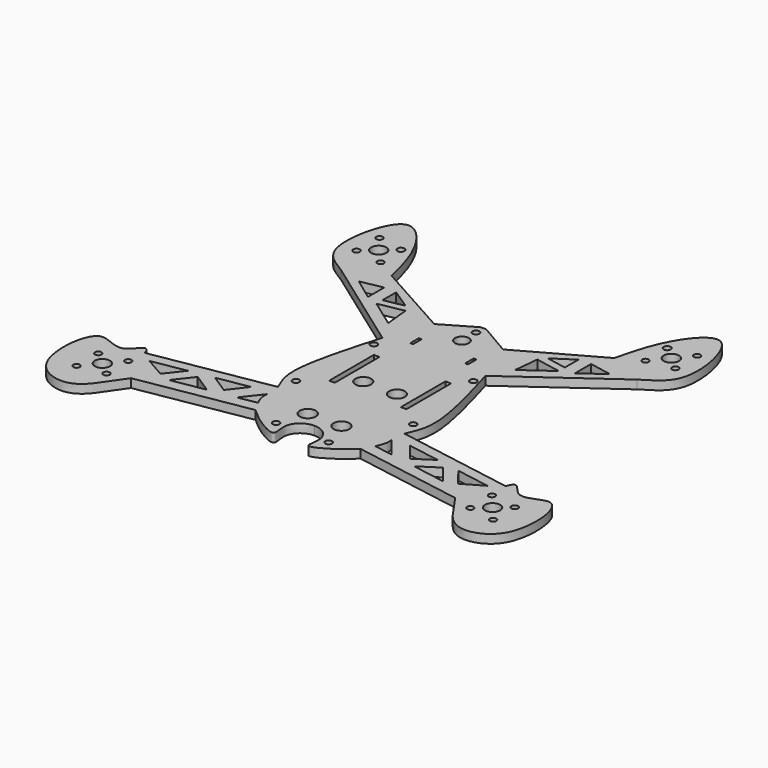
from build123d import *

# Parameters (mm, degrees)
F0_R     = 1.5
F0_R_2   = 3.5
F0_R_3   = 1.5603237364
F0_R_4   = 3.6784313997
F0_R_5   = 1.5603242853
F0_R_6   = 3.625
F0_R_7   = 1.5752571854
F0_W     = 1.3
F0_H     = 5
F0_R_8   = 1.5399300147
F0_R_9   = 1.6507982875
F0_R_10  = 3.2
F0_R_11  = 1.5589040248
F1_DEPTH = 4


with BuildPart() as f1:
    # F0 (on Top) → F1 (new body)
    with BuildSketch(Plane.XY):
        with BuildLine():
            Line((-29.1818936738, -4.574792359), (-83.2594150145, -13.7941171149))
            add(Edge.make_bspline(
                [(-83.2594150145, -13.7941171149), (-85.2128662423, -7.1198106995), (-90.6822367524, -22.2804713121), (-108.0862384356, -4.5162453231), (-111.9181982359, -44.1841921073), (-92.1066011734, -51.8826009726), (-82.4129690985, -44.8736810905), (-77.8596176364, -36.2077649533), (-74.7926011467, -32.3269814806)],
                knots=[0, 0, 0, 0, 0.121089536, 0.2817563111, 0.5080608478, 0.6900962019, 0.831812016, 1, 1, 1, 1], degree=3))
            Line((-74.7926011467, -32.3269814806), (-24.2295190477, -23.7068106042))
            add(Edge.make_bspline(
                [(-24.2295190477, -23.7068106042), (-21.6288853246, -26.1921759515), (-16.2720345656, -30.5442738452), (-5.7493978014, -35.9274045563), (-10.0844366524, -25.4601589495), (-4.2007032984, -20.0132504784), (0, -20.0132504677)],
                knots=[0, 0, 0, 0, 0.2839433682, 0.512945078, 0.7323598241, 1, 1, 1, 1], degree=3))
            add(Edge.make_bspline(
                [(24.2295190477, -23.7068106042), (21.6288853246, -26.1921759515), (16.2720345656, -30.5442738452), (5.7493978014, -35.9274045563), (10.0844366524, -25.4601589495), (4.2007032984, -20.0132504784), (0, -20.0132504677)],
                knots=[0, 0, 0, 0, 0.2839433682, 0.512945078, 0.7323598241, 1, 1, 1, 1], degree=3))
            Line((24.2295190477, -23.7068106042), (74.7926011467, -32.3269814806))
            add(Edge.make_bspline(
                [(83.2594150145, -13.7941171149), (85.2128662423, -7.1198106995), (90.6822367524, -22.2804713121), (108.0862384356, -4.5162453231), (111.9181982359, -44.1841921073), (92.1066011734, -51.8826009726), (82.4129690985, -44.8736810905), (77.8596176364, -36.2077649533), (74.7926011467, -32.3269814806)],
                knots=[0, 0, 0, 0, 0.121089536, 0.2817563111, 0.5080608478, 0.6900962019, 0.831812016, 1, 1, 1, 1], degree=3))
            Line((83.2594150145, -13.7941171149), (29.1818936738, -4.574792359))
            add(Edge.make_bspline(
                [(29.1818936738, -4.574792359), (30.7810065558, -1.0161994533), (35.2243076311, 8.9430263145), (28.2605683304, 33.235137955), (23.7655192614, 48.8469973207)],
                knots=[0, 0, 0, 0, 0.3573964528, 1, 1, 1, 1], degree=3))
            Line((23.7655192614, 48.8469973207), (68.2816207409, 80.7544887066))
            add(Edge.make_bspline(
                [(68.2816207409, 80.7544887066), (73.0141547112, 83.7643409235), (85.815308199, 89.6512026107), (76.0211343692, 131.7498013392), (57.8306329026, 113.4440015977), (53.5366143847, 98.0580862949), (51.3782771962, 88.7241733146)],
                knots=[0, 0, 0, 0, 0.2226784539, 0.5157809414, 0.7210548443, 1, 1, 1, 1], degree=3))
            Line((51.3782771962, 88.7241733146), (15.8683248522, 68.9106506181))
            Line((15.8683248522, 68.9106506181), (1.2991311302, 77.4093493819))
            Line((1.2991311302, 77.4093493819), (0, 77.4093493819))
            Line((0, 77.4093493819), (-1.2991311302, 77.4093493819))
            Line((-1.2991311302, 77.4093493819), (-15.8683248522, 68.9106506181))
            Line((-15.8683248522, 68.9106506181), (-51.3782771962, 88.7241733146))
            add(Edge.make_bspline(
                [(-68.2816207409, 80.7544887066), (-73.0141547112, 83.7643409235), (-85.815308199, 89.6512026107), (-76.0211343692, 131.7498013392), (-57.8306329026, 113.4440015977), (-53.5366143847, 98.0580862949), (-51.3782771962, 88.7241733146)],
                knots=[0, 0, 0, 0, 0.2226784539, 0.5157809414, 0.7210548443, 1, 1, 1, 1], degree=3))
            Line((-68.2816207409, 80.7544887066), (-23.7655192614, 48.8469973207))
            add(Edge.make_bspline(
                [(-29.1818936738, -4.574792359), (-30.7810065558, -1.0161994533), (-35.2243076311, 8.9430263145), (-28.2605683304, 33.235137955), (-23.7655192614, 48.8469973207)],
                knots=[0, 0, 0, 0, 0.3573964528, 1, 1, 1, 1], degree=3))
        make_face()
        with Locations((-96.0946079995, -37.0782642412)):
            Circle(F0_R, mode=Mode.SUBTRACT)
        with Locations((-90, -29.7908948027)):
            Circle(F0_R_2, mode=Mode.SUBTRACT)
        with Locations((-83.9313524877, -35.0035253643)):
            Circle(F0_R, mode=Mode.SUBTRACT)
        with Locations((-96.0686475123, -24.5782642412)):
            Circle(F0_R, mode=Mode.SUBTRACT)
        with Locations((-83.9053920005, -22.5035253643)):
            Circle(F0_R, mode=Mode.SUBTRACT)
        Polygon((-68.6591267586, -23.018611595), (-77.9922753572, -17.6635235548), (-62.3705416318, -15.0002758154), align=None, mode=Mode.SUBTRACT)
        Polygon((-47.7932764983, -22.2815754728), (-63.2166972767, -24.9110141282), (-56.6408589283, -16.5264126881), align=None, mode=Mode.SUBTRACT)
        Polygon((-42.9289423631, -18.6292827273), (-51.3866762413, -13.1277080719), (-36.6785697721, -10.6202186988), align=None, mode=Mode.SUBTRACT)
        with BuildLine():
            Line((-27.0325545608, -18.7422150701), (-35.596736209, -20.2022666762))
            Line((-35.596736209, -20.2022666762), (-28.658721596, -11.3120761383))
            add(Edge.make_bspline(
                [(-28.658721596, -11.3120761383), (-28.7729959543, -12.6906338356), (-28.975672476, -14.0126159853), (-27.6802208506, -17.5715144674), (-27.0325545608, -18.7422150701)],
                knots=[0, 0, 0, 0, 0.4428259853, 1, 1, 1, 1], degree=3))
        make_face(mode=Mode.SUBTRACT)
        with Locations((-12.1216634288, -26.9466340542)):
            Circle(F0_R_3, mode=Mode.SUBTRACT)
        with Locations((-7.7821551822, -14.1475396231)):
            Circle(F0_R_4, mode=Mode.SUBTRACT)
        with Locations((-27.0325545608, 3.1299367547)):
            Circle(F0_R_5, mode=Mode.SUBTRACT)
        Polygon((-15.2274593711, 36.5069974214), (-15.2274593711, 17.2249544412), (-15.2274593711, 10.7579939067), (-17.823997885, 10.7579939067), (-17.823997885, 36.5069974214), align=None, mode=Mode.SUBTRACT)
        with Locations((-7.7821551822, 17.8524603769)):
            Circle(F0_R_6, mode=Mode.SUBTRACT)
        with Locations((12.1216634288, -26.9466340542)):
            Circle(F0_R_3, mode=Mode.SUBTRACT)
        with Locations((7.7821551822, -14.1475396231)):
            Circle(F0_R_4, mode=Mode.SUBTRACT)
        Polygon((47.7932764983, -22.2815754728), (56.6408589283, -16.5264126881), (63.2166972767, -24.9110141282), align=None, mode=Mode.SUBTRACT)
        with BuildLine():
            Line((28.658721596, -11.3120761383), (35.596736209, -20.2022666762))
            Line((35.596736209, -20.2022666762), (27.0325545608, -18.7422150701))
            add(Edge.make_bspline(
                [(28.658721596, -11.3120761383), (28.7729959543, -12.6906338356), (28.975672476, -14.0126159853), (27.6802208506, -17.5715144674), (27.0325545608, -18.7422150701)],
                knots=[0, 0, 0, 0, 0.4428259853, 1, 1, 1, 1], degree=3))
        make_face(mode=Mode.SUBTRACT)
        Polygon((51.3866762413, -13.1277080719), (42.9289423631, -18.6292827273), (36.6785697721, -10.6202186988), align=None, mode=Mode.SUBTRACT)
        with Locations((83.9313524877, -35.0035253643)):
            Circle(F0_R, mode=Mode.SUBTRACT)
        with Locations((96.0946079995, -37.0782642412)):
            Circle(F0_R, mode=Mode.SUBTRACT)
        with Locations((90, -29.7908948027)):
            Circle(F0_R_2, mode=Mode.SUBTRACT)
        Polygon((62.3705416318, -15.0002758154), (77.9922753572, -17.6635235548), (68.6591267586, -23.018611595), align=None, mode=Mode.SUBTRACT)
        with Locations((83.9053920005, -22.5035253643)):
            Circle(F0_R, mode=Mode.SUBTRACT)
        with Locations((96.0686475123, -24.5782642412)):
            Circle(F0_R, mode=Mode.SUBTRACT)
        with Locations((27.0325545608, 3.1299367547)):
            Circle(F0_R_5, mode=Mode.SUBTRACT)
        with Locations((7.7821551822, 17.8524603769)):
            Circle(F0_R_6, mode=Mode.SUBTRACT)
        Polygon((15.2274593711, 10.7579939067), (15.2274593711, 17.2249544412), (15.2274593711, 36.5069974214), (17.823997885, 36.5069974214), (17.823997885, 10.7579939067), align=None, mode=Mode.SUBTRACT)
        with Locations((-22.9405742139, 42.9435260594)):
            Circle(F0_R_7, mode=Mode.SUBTRACT)
        with Locations((-12.65, 54.3495012075)):
            Rectangle(F0_W, F0_H, mode=Mode.SUBTRACT)
        Polygon((-29.2828613347, 59.134678308), (-42.0545633841, 68.2889609065), (-30.4211732, 70.5167840533), align=None, mode=Mode.SUBTRACT)
        Polygon((-47.7314293385, 70.5167840533), (-57.9012036324, 77.9368430376), (-47.7314293385, 79.8843801022), align=None, mode=Mode.SUBTRACT)
        Polygon((-42.0545633841, 71.8088777594), (-42.0545633841, 79.667883837), (-32.8156164755, 73.5781590651), align=None, mode=Mode.SUBTRACT)
        with Locations((-73.5243286962, 96.1655519505)):
            Circle(F0_R_8, mode=Mode.SUBTRACT)
        with Locations((-61.0541890519, 94.4506923964)):
            Circle(F0_R, mode=Mode.SUBTRACT)
        with Locations((-67.5, 101.4293399174)):
            Circle(F0_R_2, mode=Mode.SUBTRACT)
        with Locations((-61.4313533865, 106.6419715253)):
            Circle(F0_R_9, mode=Mode.SUBTRACT)
        with Locations((-73.2241010011, 109.011204314)):
            Circle(F0_R, mode=Mode.SUBTRACT)
        with Locations((22.9405742139, 42.9435260594)):
            Circle(F0_R_7, mode=Mode.SUBTRACT)
        with Locations((12.65, 54.3495012075)):
            Rectangle(F0_W, F0_H, mode=Mode.SUBTRACT)
        with Locations((0, 65.0631412864)):
            Circle(F0_R_10, mode=Mode.SUBTRACT)
        with Locations((0, 73.16)):
            Circle(F0_R_11, mode=Mode.SUBTRACT)
        Polygon((30.4211732, 70.5167840533), (42.0545633841, 68.2889609065), (29.2828613347, 59.134678308), align=None, mode=Mode.SUBTRACT)
        Polygon((42.0545633841, 79.667883837), (42.0545633841, 71.8088777594), (32.8156164755, 73.5781590651), align=None, mode=Mode.SUBTRACT)
        Polygon((47.7314293385, 79.8843801022), (57.9012036324, 77.9368430376), (47.7314293385, 70.5167840533), align=None, mode=Mode.SUBTRACT)
        with Locations((61.4053907493, 94.1419715253)):
            Circle(F0_R, mode=Mode.SUBTRACT)
        with Locations((73.5686468667, 96.2167086041)):
            Circle(F0_R_8, mode=Mode.SUBTRACT)
        with Locations((67.5, 101.4293399174)):
            Circle(F0_R_2, mode=Mode.SUBTRACT)
        with Locations((61.4313533865, 106.6419715253)):
            Circle(F0_R_9, mode=Mode.SUBTRACT)
        with Locations((73.5946088983, 108.7167086041)):
            Circle(F0_R, mode=Mode.SUBTRACT)
    extrude(amount=F1_DEPTH)


solid = f1.part
